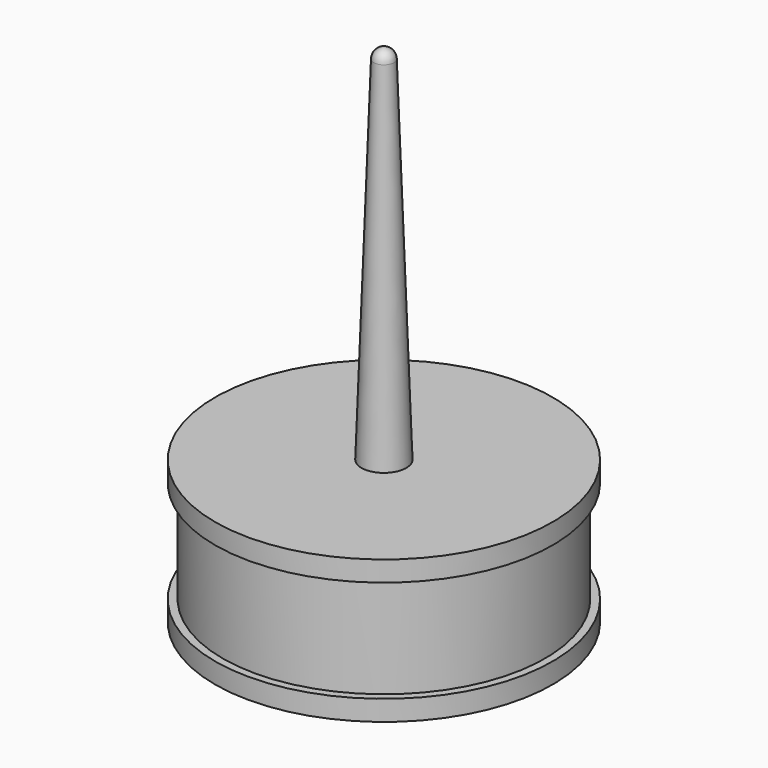
from build123d import *


with BuildPart() as f2:
    # F0 (on Right) → F2 (revolve)
    with BuildSketch(Plane.YZ):
        Polygon((0, 0), (-21.236891, 0), (-21.236891, -2.565051), (-20.269148, -2.565051), (-20.269148, -15.424454), (-21.236891, -15.424454), (-21.236891, -17.989506), (0, -17.989506), align=None)
    revolve(axis=Axis((0, 0, -5.987924), (0, 0, 1)))


with BuildPart() as f4:
    # F3 (on Right) → F4 (revolve)
    with BuildSketch(Plane.YZ):
        Polygon((0, 44.369929), (0, 0), (2.819432, 0), (1.27, 44.369929), align=None)
        with BuildLine():
            Line((0, 45.639929), (0, 44.369929))
            Line((0, 44.369929), (1.27, 44.369929))
            ThreePointArc((1.27, 44.369929), (0.898026, 45.267954), (0, 45.639929))
        make_face()
    revolve(axis=Axis((0, 0, -5.987924), (0, 0, 1)))


solid = Compound([f2.part, f4.part])
